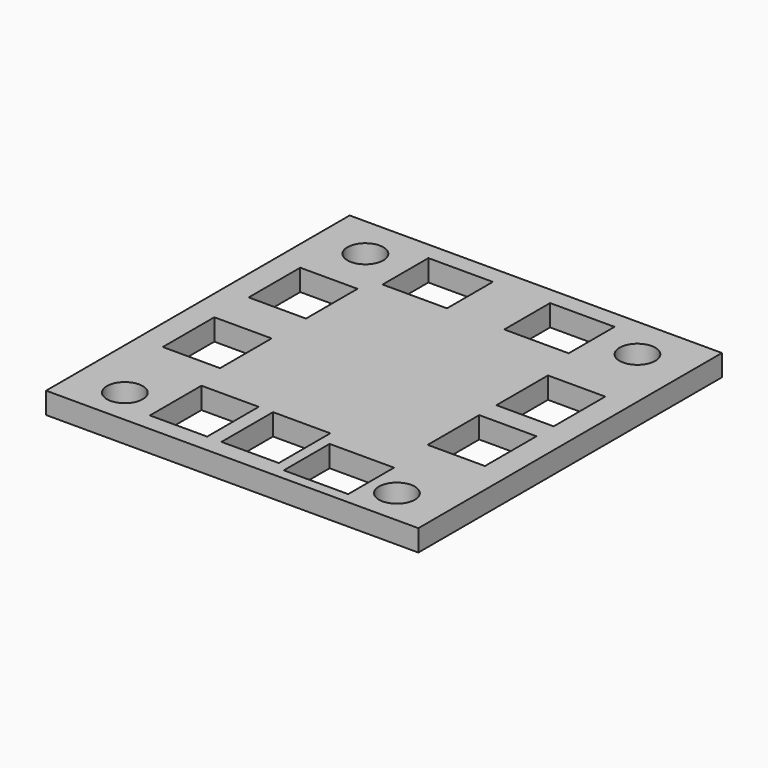
from build123d import *

# Parameters (mm, degrees)
F0_W     = 52
F0_H     = 53
F0_R     = 2.5
F0_W_2   = 8
F0_H_2   = 9
F0_W_3   = 9
F0_H_3   = 8
F1_DEPTH = 3


with BuildPart() as f1:
    # F0 (on Top) → F1 (new body)
    with BuildSketch(Plane.XY):
        with Locations((26, 26.5)):
            Rectangle(F0_W, F0_H)
        with Locations((7, 5)):
            Circle(F0_R, mode=Mode.SUBTRACT)
        with Locations((16.5, 7)):
            Rectangle(F0_W_2, F0_H_2, mode=Mode.SUBTRACT)
        with Locations((7.5, 20.5)):
            Rectangle(F0_W_2, F0_H_2, mode=Mode.SUBTRACT)
        with Locations((36.5, 5.5)):
            Rectangle(F0_W_3, F0_H_3, mode=Mode.SUBTRACT)
        with Locations((26.5, 7)):
            Rectangle(F0_W_2, F0_H_2, mode=Mode.SUBTRACT)
        with Locations((45, 5)):
            Circle(F0_R, mode=Mode.SUBTRACT)
        with Locations((44.5, 20.5)):
            Rectangle(F0_W_2, F0_H_2, mode=Mode.SUBTRACT)
        with Locations((7.5, 35.5)):
            Rectangle(F0_W_2, F0_H_2, mode=Mode.SUBTRACT)
        with Locations((7, 47)):
            Circle(F0_R, mode=Mode.SUBTRACT)
        with Locations((17.5, 46.5)):
            Rectangle(F0_W_3, F0_H_3, mode=Mode.SUBTRACT)
        with Locations((44.5, 32.5)):
            Rectangle(F0_W_2, F0_H_2, mode=Mode.SUBTRACT)
        with Locations((34.5, 46.5)):
            Rectangle(F0_W_3, F0_H_3, mode=Mode.SUBTRACT)
        with Locations((45, 47)):
            Circle(F0_R, mode=Mode.SUBTRACT)
    extrude(amount=F1_DEPTH)


solid = f1.part
